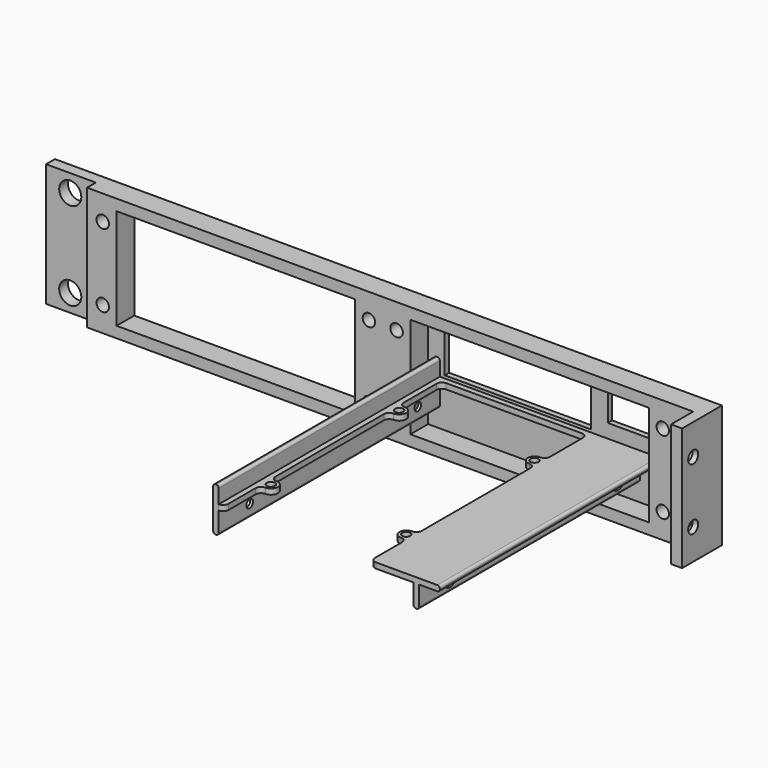
from build123d import *

# Parameters (mm, degrees)
SKETCH004_W     = 241.3
SKETCH004_H     = 44.5
SKETCH004_R     = 4
SKETCH004_R_2   = 2.25
SKETCH004_W_2   = 86.3
SKETCH004_H_2   = 36.5
PAD003_DEPTH    = 8
SKETCH_W        = 18
SKETCH_H        = 44.5
POCKET_DEPTH    = 4
SKETCH030_W     = 4
SKETCH030_H     = 44.5
PAD_DEPTH       = 10
SKETCH031_R     = 3.75
POCKET013_DEPTH = 2
SKETCH032_R     = 2.25
POCKET014_DEPTH = 5
SKETCH020_W     = 104.3
SKETCH020_H     = 40.5
SKETCH020_R     = 2.25
SKETCH020_W_2   = 53
SKETCH020_H_2   = 18
SKETCH020_W_3   = 20
SKETCH020_H_3   = 10
PAD006_DEPTH    = 2
PAD007_DEPTH    = 100
POCKET011_DEPTH = 5
SKETCH033_W     = 28.99
SKETCH033_H     = 80
POCKET015_DEPTH = 5
SKETCH034_R     = 1.5
POCKET016_DEPTH = 92.681
SKETCH035_R     = 3
POCKET017_DEPTH = 1
SKETCH036_R     = 3
POCKET018_DEPTH = 1
SKETCH027_R     = 1.5
POCKET019_DEPTH = 2
FILLET_R        = 1.95
FILLET001_R     = 0.9


with BuildPart() as obj1:
    # Sketch004 → Pad003 (new body)
    with BuildSketch(Plane.XZ):
        with Locations((-4.35, 0)):
            Rectangle(SKETCH004_W, SKETCH004_H)
        with Locations((-116.26, 15.9)):
            Circle(SKETCH004_R, mode=Mode.SUBTRACT)
        with Locations((-116.26, -15.9)):
            Circle(SKETCH004_R, mode=Mode.SUBTRACT)
        with Locations((-101.3, 13.25)):
            Circle(SKETCH004_R_2, mode=Mode.SUBTRACT)
        with Locations((-101.3, -13.25)):
            Circle(SKETCH004_R_2, mode=Mode.SUBTRACT)
        with Locations((-5, -13.25)):
            Circle(SKETCH004_R_2, mode=Mode.SUBTRACT)
        with Locations((-5, 13.25)):
            Circle(SKETCH004_R_2, mode=Mode.SUBTRACT)
        with Locations((5, 13.25)):
            Circle(SKETCH004_R_2, mode=Mode.SUBTRACT)
        with Locations((5, -13.25)):
            Circle(SKETCH004_R_2, mode=Mode.SUBTRACT)
        with Locations((101.3, -13.25)):
            Circle(SKETCH004_R_2, mode=Mode.SUBTRACT)
        with Locations((101.3, 13.25)):
            Circle(SKETCH004_R_2, mode=Mode.SUBTRACT)
        with Locations((-53.15, 0)):
            Rectangle(SKETCH004_W_2, SKETCH004_H_2, mode=Mode.SUBTRACT)
        with Locations((53.15, 0)):
            Rectangle(SKETCH004_W_2, SKETCH004_H_2, mode=Mode.SUBTRACT)
    extrude(amount=PAD003_DEPTH)

    # Sketch → Pocket (cut)
    with BuildSketch(Plane.XZ.offset(8)):
        with Locations((-116, 0)):
            Rectangle(SKETCH_W, SKETCH_H)
    extrude(amount=-POCKET_DEPTH, mode=Mode.SUBTRACT)

    # Sketch030 (on Face4 of Pocket) → Pad (join)
    with BuildSketch(Plane.XZ.offset(8)):
        with Locations((114.3, 0)):
            Rectangle(SKETCH030_W, SKETCH030_H)
    extrude(amount=PAD_DEPTH)

    # Sketch031 (on Face24 of Pad) → Pocket013 (cut)
    with BuildSketch(Plane(origin=(112.3, 0, 0), x_dir=(0, 0, -1), z_dir=(-1, 0, 0))):
        with Locations((-11.125, 13)):
            Circle(SKETCH031_R)
        Polygon((15.455127, 13), (13.290064, 16.75), (8.959936, 16.75), (6.794873, 13), (8.959936, 9.25), (13.290064, 9.25), align=None)
    extrude(amount=-POCKET013_DEPTH, mode=Mode.SUBTRACT)

    # Sketch032 (on Face27 of Pocket013) → Pocket014 (cut)
    with BuildSketch(Plane(origin=(112.3, 0, 0), x_dir=(0, 0, -1), z_dir=(-1, 0, 0))):
        with Locations((-11.125, 13)):
            Circle(SKETCH032_R)
        with Locations((11.125, 13)):
            Circle(SKETCH032_R)
    extrude(amount=-POCKET014_DEPTH, mode=Mode.SUBTRACT)


with BuildPart() as obj2:
    # Sketch020 → Pad006 (new body)
    with BuildSketch(Plane.XZ):
        with Locations((53.72, 0)):
            Rectangle(SKETCH020_W, SKETCH020_H)
        with Locations((5.57, 13.25)):
            Circle(SKETCH020_R, mode=Mode.SUBTRACT)
        with Locations((5.57, -13.25)):
            Circle(SKETCH020_R, mode=Mode.SUBTRACT)
        with Locations((101.87, -13.25)):
            Circle(SKETCH020_R, mode=Mode.SUBTRACT)
        with Locations((101.87, 13.25)):
            Circle(SKETCH020_R, mode=Mode.SUBTRACT)
        with Locations((42.5, 8.25)):
            Rectangle(SKETCH020_W_2, SKETCH020_H_2, mode=Mode.SUBTRACT)
        with Locations((85, 8.25)):
            Rectangle(SKETCH020_W_3, SKETCH020_H_3, mode=Mode.SUBTRACT)
    extrude(amount=-PAD006_DEPTH)

    # Sketch022 (on Face17 of Pad006) → Pad007 (join)
    with BuildSketch(Plane.XZ):
        Polygon((84.75, -3.75), (14.25, -3.75), (14.25, -11.75), (12.25, -11.75), (12.25, 4.25), (14.25, 4.25), (14.25, -1.75), (94.25, -1.75), (94.25, -3.75), (86.75, -3.75), (86.75, -11.75), (84.75, -11.75), align=None)
    extrude(amount=PAD007_DEPTH)

    # Sketch026 → Pocket011 (cut)
    with BuildSketch(Plane(origin=(0, 0, -5.75), x_dir=(1, 0, 0), z_dir=(0, 0, -1))):
        with BuildLine():
            ThreePointArc((67.2, 25.8), (64.7, 23.3), (67.2, 20.8))
            Line((67.2, 20.8), (69.2, 20.8))
            Line((69.2, 20.8), (69.2, 2))
            Line((16.21, 2), (69.2, 2))
            Line((16.21, 20.8), (16.21, 2))
            Line((18.21, 20.8), (16.21, 20.8))
            ThreePointArc((18.21, 20.8), (20.71, 23.3), (18.21, 25.8))
            Line((18.21, 25.8), (16.21, 25.8))
            Line((16.21, 78.8), (16.21, 25.8))
            Line((18.21, 78.8), (16.21, 78.8))
            ThreePointArc((18.21, 78.8), (20.71, 81.3), (18.21, 83.8))
            Line((18.21, 83.8), (16.21, 83.8))
            Line((16.21, 83.8), (16.21, 103.8))
            Line((16.21, 103.8), (69.2, 103.8))
            Line((69.2, 83.8), (69.2, 103.8))
            Line((67.2, 83.8), (69.2, 83.8))
            ThreePointArc((67.2, 83.8), (64.7, 81.3), (67.2, 78.8))
            Line((67.2, 78.8), (69.2, 78.8))
            Line((69.2, 78.8), (69.2, 25.8))
            Line((67.2, 25.8), (69.2, 25.8))
        make_face()
    extrude(amount=-POCKET011_DEPTH, mode=Mode.SUBTRACT)

    # Sketch033 → Pocket015 (cut)
    with BuildSketch(Plane(origin=(0, 0, -3.75), x_dir=(-1, 0, 0), z_dir=(0, 0, 1))):
        with Locations((-41.64, 60)):
            Rectangle(SKETCH033_W, SKETCH033_H)
    extrude(amount=-POCKET015_DEPTH, mode=Mode.SUBTRACT)

    # Sketch034 (on Face9 of Pocket015) → Pocket016 (cut, through all)
    with BuildSketch(Plane(origin=(94.25, 0, 0), x_dir=(0, 0, 1), z_dir=(1, 0, 0))):
        with Locations((-7.25, 86)):
            Circle(SKETCH034_R)
        with Locations((-7.25, 10)):
            Circle(SKETCH034_R)
    extrude(amount=-POCKET016_DEPTH, mode=Mode.SUBTRACT)

    # Sketch035 (on Face17 of Pocket016) → Pocket017 (cut)
    with BuildSketch(Plane(origin=(12.25, 0, 0), x_dir=(0, 0, -1), z_dir=(-1, 0, 0))):
        with Locations((7.25, 86)):
            Circle(SKETCH035_R)
        with Locations((7.25, 10)):
            Circle(SKETCH035_R)
    extrude(amount=-POCKET017_DEPTH, mode=Mode.SUBTRACT)

    # Sketch036 (on Face11 of Pocket017) → Pocket018 (cut)
    with BuildSketch(Plane(origin=(86.75, 0, 0), x_dir=(0, 0, 1), z_dir=(1, 0, 0))):
        with Locations((-7.25, 86)):
            Circle(SKETCH036_R)
        with Locations((-7.25, 10)):
            Circle(SKETCH036_R)
    extrude(amount=-POCKET018_DEPTH, mode=Mode.SUBTRACT)

    # Sketch027 (on Face8 of Pocket011) → Pocket019 (cut)
    with BuildSketch(Plane(origin=(0, 0, -1.75), x_dir=(-1, 0, 0), z_dir=(0, 0, 1))):
        with Locations((-67.135, 81.3)):
            Circle(SKETCH027_R)
        with Locations((-18.145, 81.3)):
            Circle(SKETCH027_R)
        with Locations((-67.135, 23.3)):
            Circle(SKETCH027_R)
        with Locations((-18.145, 23.3)):
            Circle(SKETCH027_R)
    extrude(amount=-POCKET019_DEPTH, mode=Mode.SUBTRACT)

    # Fillet
    fillet_edges = [obj2.edges().sort_by_distance(p)[0] for p in [
        (16.21, -83.8, -2.75),
        (16.21, -78.8, -2.75),
        (16.21, -25.8, -2.75),
        (69.2, -83.8, -2.75),
        (69.2, -78.8, -2.75),
        (69.2, -25.8, -2.75),
        (16.21, -20.8, -2.75),
        (69.2, -20.8, -2.75),
        (16.21, -2, -2.75),
        (69.2, -2, -2.75),
        (16.21, -100, -2.75),
        (69.2, -100, -2.75),
    ]]
    fillet(fillet_edges, radius=FILLET_R)

    # Fillet001
    fillet001_edges = [obj2.edges().sort_by_distance(p)[0] for p in [
        (14.25, -50, -11.75),
        (12.25, -50, -11.75),
        (12.25, -50, 4.25),
        (14.25, -50, 4.25),
        (86.75, -50, -11.75),
        (84.75, -50, -11.75),
        (94.25, -50, -3.75),
        (94.25, -50, -1.75),
    ]]
    fillet(fillet001_edges, radius=FILLET001_R)


solid = Compound([obj1.part, obj2.part])
